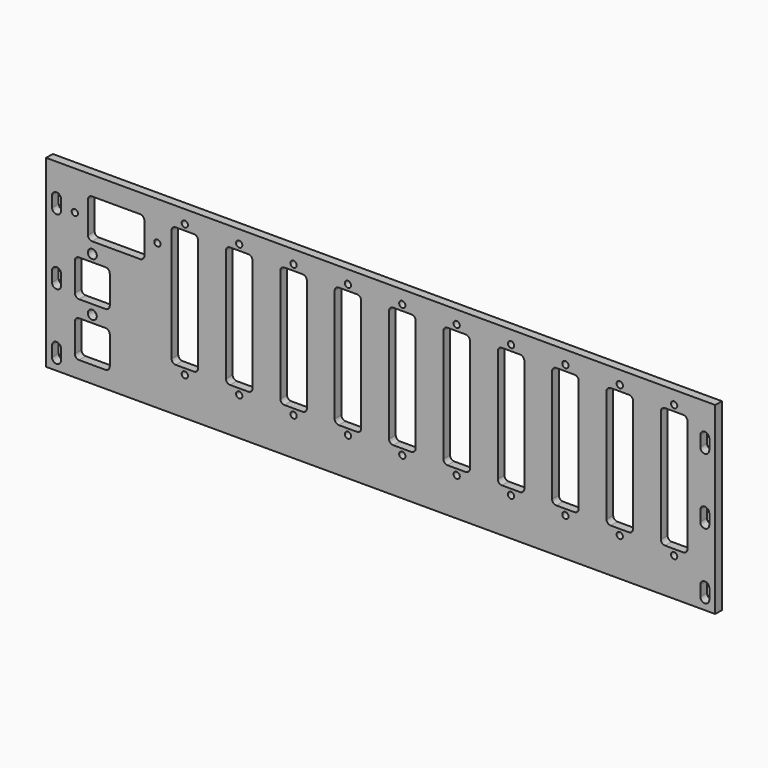
from build123d import *

# Parameters (mm, degrees)
F0_W     = 320
F0_H     = 88
F0_R     = 1.5
F0_R_2   = 2.15
F1_DEPTH = 4


with BuildPart() as f1:
    # F0 (on Front) → F1 (new body)
    with BuildSketch(Plane.XZ):
        Rectangle(F0_W, F0_H)
        with BuildLine():
            Line((-152.85, -34), (-152.85, -39))
            ThreePointArc((-152.85, -39), (-155, -41.15), (-157.15, -39))
            Line((-157.15, -39), (-157.15, -34))
            ThreePointArc((-157.15, -34), (-155, -31.85), (-152.85, -34))
        make_face(mode=Mode.SUBTRACT)
        with BuildLine():
            ThreePointArc((-129.55, -34), (-130.135786, -35.414214), (-131.55, -36))
            Line((-131.55, -36), (-144.25, -36))
            ThreePointArc((-144.25, -36), (-145.664214, -35.414214), (-146.25, -34))
            Line((-146.25, -34), (-146.25, -20.4))
            ThreePointArc((-146.25, -20.4), (-145.664214, -18.985786), (-144.25, -18.4))
            Line((-144.25, -18.4), (-131.55, -18.4))
            ThreePointArc((-131.55, -18.4), (-130.135786, -18.985786), (-129.55, -20.4))
            Line((-129.55, -20.4), (-129.55, -34))
        make_face(mode=Mode.SUBTRACT)
        with Locations((-93.65, -25.8)):
            Circle(F0_R, mode=Mode.SUBTRACT)
        with Locations((-67.65, -25.8)):
            Circle(F0_R, mode=Mode.SUBTRACT)
        with Locations((-41.65, -25.8)):
            Circle(F0_R, mode=Mode.SUBTRACT)
        with Locations((-15.65, -25.8)):
            Circle(F0_R, mode=Mode.SUBTRACT)
        with Locations((-137.9, -14.9)):
            Circle(F0_R_2, mode=Mode.SUBTRACT)
        with BuildLine():
            Line((-152.85, -2.5), (-152.85, -7.5))
            ThreePointArc((-152.85, -7.5), (-155, -9.65), (-157.15, -7.5))
            Line((-157.15, -7.5), (-157.15, -2.5))
            ThreePointArc((-157.15, -2.5), (-155, -0.35), (-152.85, -2.5))
        make_face(mode=Mode.SUBTRACT)
        with BuildLine():
            Line((-144.25, 7.2), (-131.55, 7.2))
            ThreePointArc((-131.55, 7.2), (-130.135786, 6.614214), (-129.55, 5.2))
            Line((-129.55, 5.2), (-129.55, -8.4))
            ThreePointArc((-129.55, -8.4), (-130.135786, -9.814214), (-131.55, -10.4))
            Line((-131.55, -10.4), (-144.25, -10.4))
            ThreePointArc((-144.25, -10.4), (-145.664214, -9.814214), (-146.25, -8.4))
            Line((-146.25, -8.4), (-146.25, 5.2))
            ThreePointArc((-146.25, 5.2), (-145.664214, 6.614214), (-144.25, 7.2))
        make_face(mode=Mode.SUBTRACT)
        with Locations((10.35, -25.8)):
            Circle(F0_R, mode=Mode.SUBTRACT)
        with Locations((36.35, -25.8)):
            Circle(F0_R, mode=Mode.SUBTRACT)
        with Locations((62.35, -25.8)):
            Circle(F0_R, mode=Mode.SUBTRACT)
        with BuildLine():
            Line((157.15, -34), (157.15, -39))
            ThreePointArc((157.15, -39), (155, -41.15), (152.85, -39))
            Line((152.85, -39), (152.85, -34))
            ThreePointArc((152.85, -34), (155, -31.85), (157.15, -34))
        make_face(mode=Mode.SUBTRACT)
        with Locations((88.35, -25.8)):
            Circle(F0_R, mode=Mode.SUBTRACT)
        with Locations((114.35, -25.8)):
            Circle(F0_R, mode=Mode.SUBTRACT)
        with Locations((140.35, -25.8)):
            Circle(F0_R, mode=Mode.SUBTRACT)
        with BuildLine():
            Line((157.15, -2.5), (157.15, -7.5))
            ThreePointArc((157.15, -7.5), (155, -9.65), (152.85, -7.5))
            Line((152.85, -7.5), (152.85, -2.5))
            ThreePointArc((152.85, -2.5), (155, -0.35), (157.15, -2.5))
        make_face(mode=Mode.SUBTRACT)
        with Locations((-137.9, 10.7)):
            Circle(F0_R_2, mode=Mode.SUBTRACT)
        with BuildLine():
            Line((-89.3, -23), (-98, -23))
            ThreePointArc((-98, -23), (-99.414214, -22.414214), (-100, -21))
            Line((-100, -21), (-100, 32.9))
            ThreePointArc((-100, 32.9), (-99.414214, 34.314214), (-98, 34.9))
            Line((-98, 34.9), (-89.3, 34.9))
            ThreePointArc((-89.3, 34.9), (-87.885786, 34.314214), (-87.3, 32.9))
            Line((-87.3, 32.9), (-87.3, -21))
            ThreePointArc((-87.3, -21), (-87.885786, -22.414214), (-89.3, -23))
        make_face(mode=Mode.SUBTRACT)
        with BuildLine():
            ThreePointArc((-74, 32.9), (-73.414214, 34.314214), (-72, 34.9))
            Line((-72, 34.9), (-63.3, 34.9))
            ThreePointArc((-63.3, 34.9), (-61.885786, 34.314214), (-61.3, 32.9))
            Line((-61.3, 32.9), (-61.3, -21))
            ThreePointArc((-61.3, -21), (-61.885786, -22.414214), (-63.3, -23))
            Line((-63.3, -23), (-72, -23))
            ThreePointArc((-72, -23), (-73.414214, -22.414214), (-74, -21))
            Line((-74, -21), (-74, 32.9))
        make_face(mode=Mode.SUBTRACT)
        with BuildLine():
            ThreePointArc((-48, 32.9), (-47.414214, 34.314214), (-46, 34.9))
            Line((-46, 34.9), (-37.3, 34.9))
            ThreePointArc((-37.3, 34.9), (-35.885786, 34.314214), (-35.3, 32.9))
            Line((-35.3, 32.9), (-35.3, -21))
            ThreePointArc((-35.3, -21), (-35.885786, -22.414214), (-37.3, -23))
            Line((-37.3, -23), (-46, -23))
            ThreePointArc((-46, -23), (-47.414214, -22.414214), (-48, -21))
            Line((-48, -21), (-48, 32.9))
        make_face(mode=Mode.SUBTRACT)
        with BuildLine():
            ThreePointArc((-22, 32.9), (-21.414214, 34.314214), (-20, 34.9))
            Line((-20, 34.9), (-11.3, 34.9))
            ThreePointArc((-11.3, 34.9), (-9.885786, 34.314214), (-9.3, 32.9))
            Line((-9.3, 32.9), (-9.3, -21))
            ThreePointArc((-9.3, -21), (-9.885786, -22.414214), (-11.3, -23))
            Line((-11.3, -23), (-20, -23))
            ThreePointArc((-20, -23), (-21.414214, -22.414214), (-22, -21))
            Line((-22, -21), (-22, 32.9))
        make_face(mode=Mode.SUBTRACT)
        with BuildLine():
            Line((-152.85, 29), (-152.85, 24))
            ThreePointArc((-152.85, 24), (-155, 21.85), (-157.15, 24))
            Line((-157.15, 24), (-157.15, 29))
            ThreePointArc((-157.15, 29), (-155, 31.15), (-152.85, 29))
        make_face(mode=Mode.SUBTRACT)
        with Locations((-146.25, 25.45)):
            Circle(F0_R, mode=Mode.SUBTRACT)
        with BuildLine():
            ThreePointArc((-113, 18), (-113.585786, 16.585786), (-115, 16))
            Line((-115, 16), (-138, 16))
            ThreePointArc((-138, 16), (-139.414214, 16.585786), (-140, 18))
            Line((-140, 18), (-140, 32.9))
            ThreePointArc((-140, 32.9), (-139.414214, 34.314214), (-138, 34.9))
            Line((-138, 34.9), (-115, 34.9))
            ThreePointArc((-115, 34.9), (-113.585786, 34.314214), (-113, 32.9))
            Line((-113, 32.9), (-113, 18))
        make_face(mode=Mode.SUBTRACT)
        with Locations((-106.75, 25.45)):
            Circle(F0_R, mode=Mode.SUBTRACT)
        with Locations((-93.65, 37.7)):
            Circle(F0_R, mode=Mode.SUBTRACT)
        with Locations((-67.65, 37.7)):
            Circle(F0_R, mode=Mode.SUBTRACT)
        with Locations((-41.65, 37.7)):
            Circle(F0_R, mode=Mode.SUBTRACT)
        with Locations((-15.65, 37.7)):
            Circle(F0_R, mode=Mode.SUBTRACT)
        with BuildLine():
            ThreePointArc((4, 32.9), (4.585786, 34.314214), (6, 34.9))
            Line((6, 34.9), (14.7, 34.9))
            ThreePointArc((14.7, 34.9), (16.114214, 34.314214), (16.7, 32.9))
            Line((16.7, 32.9), (16.7, -21))
            ThreePointArc((16.7, -21), (16.114214, -22.414214), (14.7, -23))
            Line((14.7, -23), (6, -23))
            ThreePointArc((6, -23), (4.585786, -22.414214), (4, -21))
            Line((4, -21), (4, 32.9))
        make_face(mode=Mode.SUBTRACT)
        with BuildLine():
            ThreePointArc((30, 32.9), (30.585786, 34.314214), (32, 34.9))
            Line((32, 34.9), (40.7, 34.9))
            ThreePointArc((40.7, 34.9), (42.114214, 34.314214), (42.7, 32.9))
            Line((42.7, 32.9), (42.7, -21))
            ThreePointArc((42.7, -21), (42.114214, -22.414214), (40.7, -23))
            Line((40.7, -23), (32, -23))
            ThreePointArc((32, -23), (30.585786, -22.414214), (30, -21))
            Line((30, -21), (30, 32.9))
        make_face(mode=Mode.SUBTRACT)
        with BuildLine():
            ThreePointArc((56, 32.9), (56.585786, 34.314214), (58, 34.9))
            Line((58, 34.9), (66.7, 34.9))
            ThreePointArc((66.7, 34.9), (68.114214, 34.314214), (68.7, 32.9))
            Line((68.7, 32.9), (68.7, -21))
            ThreePointArc((68.7, -21), (68.114214, -22.414214), (66.7, -23))
            Line((66.7, -23), (58, -23))
            ThreePointArc((58, -23), (56.585786, -22.414214), (56, -21))
            Line((56, -21), (56, 32.9))
        make_face(mode=Mode.SUBTRACT)
        with BuildLine():
            ThreePointArc((82, 32.9), (82.585786, 34.314214), (84, 34.9))
            Line((84, 34.9), (92.7, 34.9))
            ThreePointArc((92.7, 34.9), (94.114214, 34.314214), (94.7, 32.9))
            Line((94.7, 32.9), (94.7, -21))
            ThreePointArc((94.7, -21), (94.114214, -22.414214), (92.7, -23))
            Line((92.7, -23), (84, -23))
            ThreePointArc((84, -23), (82.585786, -22.414214), (82, -21))
            Line((82, -21), (82, 32.9))
        make_face(mode=Mode.SUBTRACT)
        with BuildLine():
            ThreePointArc((108, 32.9), (108.585786, 34.314214), (110, 34.9))
            Line((110, 34.9), (118.7, 34.9))
            ThreePointArc((118.7, 34.9), (120.114214, 34.314214), (120.7, 32.9))
            Line((120.7, 32.9), (120.7, -21))
            ThreePointArc((120.7, -21), (120.114214, -22.414214), (118.7, -23))
            Line((118.7, -23), (110, -23))
            ThreePointArc((110, -23), (108.585786, -22.414214), (108, -21))
            Line((108, -21), (108, 32.9))
        make_face(mode=Mode.SUBTRACT)
        with BuildLine():
            ThreePointArc((134, 32.9), (134.585786, 34.314214), (136, 34.9))
            Line((136, 34.9), (144.7, 34.9))
            ThreePointArc((144.7, 34.9), (146.114214, 34.314214), (146.7, 32.9))
            Line((146.7, 32.9), (146.7, -21))
            ThreePointArc((146.7, -21), (146.114214, -22.414214), (144.7, -23))
            Line((144.7, -23), (136, -23))
            ThreePointArc((136, -23), (134.585786, -22.414214), (134, -21))
            Line((134, -21), (134, 32.9))
        make_face(mode=Mode.SUBTRACT)
        with Locations((10.35, 37.7)):
            Circle(F0_R, mode=Mode.SUBTRACT)
        with Locations((36.35, 37.7)):
            Circle(F0_R, mode=Mode.SUBTRACT)
        with Locations((62.35, 37.7)):
            Circle(F0_R, mode=Mode.SUBTRACT)
        with BuildLine():
            Line((157.15, 29), (157.15, 24))
            ThreePointArc((157.15, 24), (155, 21.85), (152.85, 24))
            Line((152.85, 24), (152.85, 29))
            ThreePointArc((152.85, 29), (155, 31.15), (157.15, 29))
        make_face(mode=Mode.SUBTRACT)
        with Locations((88.35, 37.7)):
            Circle(F0_R, mode=Mode.SUBTRACT)
        with Locations((114.35, 37.7)):
            Circle(F0_R, mode=Mode.SUBTRACT)
        with Locations((140.35, 37.7)):
            Circle(F0_R, mode=Mode.SUBTRACT)
    extrude(amount=F1_DEPTH)


solid = f1.part
